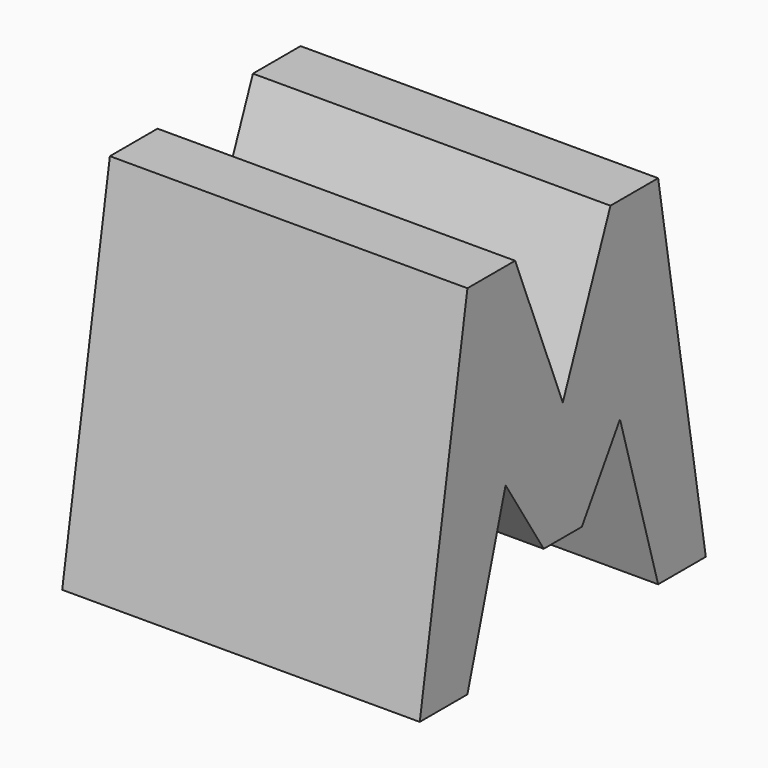
from build123d import *

# Parameters (mm, degrees)
F0_W     = 38.1
F0_H     = 38.1
F1_DEPTH = 38.1
F6_DEPTH = 38.1


with BuildPart() as f1:
    # F0 (on Front) → F1 (new body)
    with BuildSketch(Plane.XZ):
        with Locations((19.05, 19.05)):
            Rectangle(F0_W, F0_H)
    extrude(amount=F1_DEPTH)

    # F5 (on face) → F6 (cut)
    with BuildSketch(Plane.YZ.offset(38.1)):
        Polygon((-31.75, 38.1), (-38.1, 38.1), (-38.1, 0), align=None)
        Polygon((-12.7, 38.1), (-25.4, 38.1), (-19.05, 22.225), align=None)
        Polygon((-6.35, 38.1), (0, 0), (0, 38.1), align=None)
        Polygon((-26.67, 17.5525732338), (-31.75, 0), (-6.35, 0), (-11.43, 17.5525732338), (-16.51, 9.525), (-21.59, 9.525), align=None)
    extrude(amount=-F6_DEPTH, mode=Mode.SUBTRACT)


solid = f1.part
